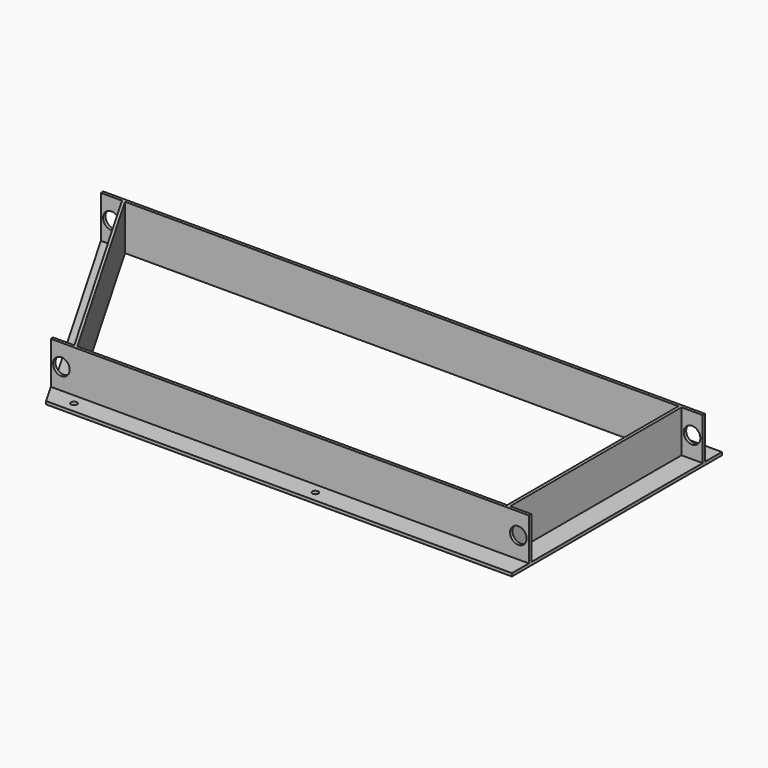
from build123d import *

# Parameters (mm, degrees)
F1_DEPTH  = 1995
F3_DEPTH  = 710
F5_DEPTH  = 1585
F7_DEPTH  = 10
F9_DEPTH  = 140
F10_R     = 10
F11_DEPTH = 25
F12_R     = 27.5
F13_DEPTH = 15
F14_R     = 27.5
F15_DEPTH = 25
F17_DEPTH = 25


with BuildPart() as f1:
    # F0 (on Right) → F1 (new body)
    with BuildSketch(Plane.YZ):
        Polygon((0, 10), (0, 0), (10, 0), (80, 0), (80, 10), (10, 10), (10, 150), (0, 150), align=None)
    extrude(amount=F1_DEPTH)

    # F2 (on face) → F3 (join)
    with BuildSketch(Plane.XZ):
        Polygon((1915, 10), (1915, 0), (1925, 0), (1995, 0), (1995, 10), (1925, 10), (1925, 150), (1915, 150), align=None)
    extrude(amount=F3_DEPTH)



with BuildPart() as f5:
    # F4 (on face) → F5 (new body)
    with BuildSketch(Plane.YZ.offset(1995)):
        Polygon((-720, 150), (-720, 10), (-790, 10), (-790, 0), (-720, 0), (-710, 0), (-710, 10), (-710, 150), align=None)
    extrude(amount=-F5_DEPTH)


with BuildPart() as f7:
    # F6 (on Top) → F7 (new body)
    with BuildSketch(Plane.XY):
        Polygon((490, -710), (80, 0), (0, 0), (410, -710), align=None)
    extrude(amount=F7_DEPTH)


with BuildPart() as f1_1:
    add(f1.part)

    add(f5.part)  # F9 merges F5

    add(f7.part)  # F9 merges F7
    # F8 (on face) → F9 (join)
    with BuildSketch(Plane.XY.offset(10)):
        Polygon((490, -710), (80, 0), (70, 0), (480, -710), align=None)
    extrude(amount=F9_DEPTH)

    # F10 (on face) → F11 (cut)
    with BuildSketch(Plane.XY.offset(10)):
        with Locations((515, -755)):
            Circle(F10_R)
        with Locations((1315, -755)):
            Circle(F10_R)
        with Locations((1793, 45)):
            Circle(F10_R)
        with Locations((193, 45)):
            Circle(F10_R)
    extrude(amount=-F11_DEPTH, mode=Mode.SUBTRACT)

    # F12 (on face) → F13 (cut)
    with BuildSketch(Plane.XZ.offset(720)):
        with Locations((445, 80)):
            Circle(F12_R)
        with Locations((1960, 80)):
            Circle(F12_R)
    extrude(amount=-F13_DEPTH, mode=Mode.SUBTRACT)

    # F14 (on face) → F15 (cut)
    with BuildSketch(Plane(origin=(0, 10, 0), x_dir=(-1, 0, 0), z_dir=(0, 1, 0))):
        with Locations((-1960, 80)):
            Circle(F14_R)
        with Locations((-35, 80)):
            Circle(F14_R)
    extrude(amount=-F15_DEPTH, mode=Mode.SUBTRACT)

    # F16 (on face) → F17 (cut)
    with BuildSketch(Plane.XY.offset(10)):
        Polygon((450.422535, -790), (410, -720), (410, -790), align=None)
    extrude(amount=-F17_DEPTH, mode=Mode.SUBTRACT)


solid = f1_1.part
